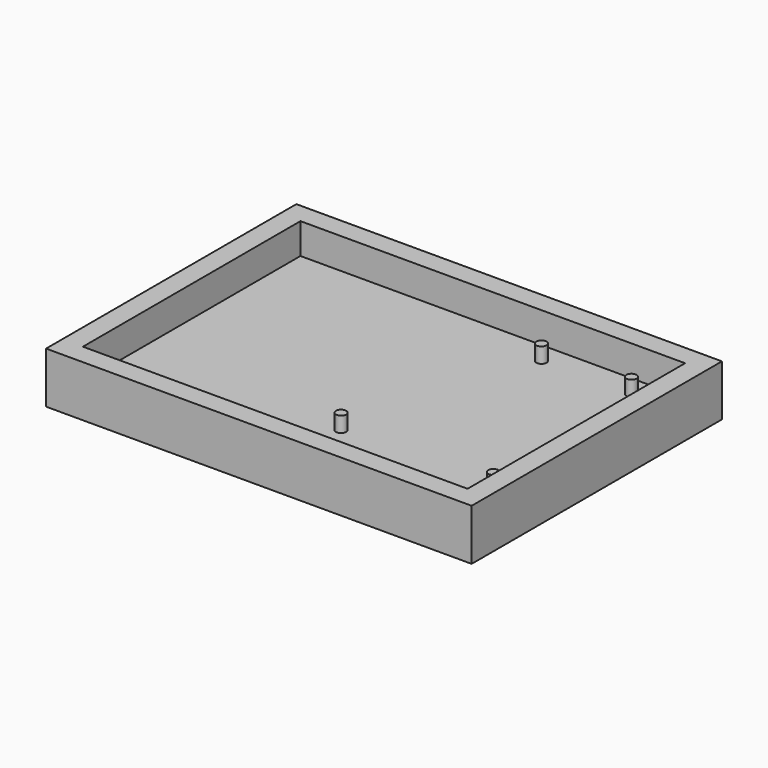
from build123d import *

# Parameters (mm, degrees)
F0_W     = 119.38
F0_H     = 84.3915
F1_DEPTH = 6.35
F2_W     = 119.38
F2_H     = 84.3915
F3_DEPTH = 9.525
F4_R     = 1.5875
F5_DEPTH = 4.7625


with BuildPart() as f1:
    # F0 (on Top) → F1 (new body)
    with BuildSketch(Plane.XY):
        Polygon((-47.6464699149, 94.2441691224), (-53.9964699149, 94.2441691224), (-53.9964699149, -2.8473308776), (78.0835300851, -2.8473308776), (78.0835300851, 0), (78.0835300851, 94.2441691224), align=None)
        with Locations((12.0435300851, 45.6984191224)):
            Rectangle(F0_W, F0_H, mode=Mode.SUBTRACT)
        with Locations((12.0435300851, 45.6984191224)):
            Rectangle(F0_W, F0_H)
    extrude(amount=F1_DEPTH)

    # F2 (on face) → F3 (join)
    with BuildSketch(Plane.XY.offset(6.35)):
        Polygon((71.7335300851, 94.2441691224), (-53.9964699149, 94.2441691224), (-53.9964699149, 87.8941691224), (-53.9964699149, -2.8473308776), (-47.6464699149, -2.8473308776), (78.0835300851, -2.8473308776), (78.0835300851, 3.5026691224), (78.0835300851, 94.2441691224), align=None)
        with Locations((12.0435300851, 45.6984191224)):
            Rectangle(F2_W, F2_H, mode=Mode.SUBTRACT)
    extrude(amount=F3_DEPTH)

    # F4 (on face) → F5 (join)
    with BuildSketch(Plane.XY.offset(6.35)):
        with Locations((32.3635300851, 81.3854191224)):
            Circle(F4_R)
        with Locations((60.3035300851, 81.3854191224)):
            Circle(F4_R)
        with Locations((17.1235300851, 22.7114191224)):
            Circle(F4_R)
        with BuildLine():
            ThreePointArc((65.3835300851, 19.8539191224), (66.5060621002, 20.3188871073), (66.9710300851, 21.4414191224))
            ThreePointArc((66.9710300851, 21.4414191224), (64.26099807, 22.5639511376), (65.3835300851, 19.8539191224))
        make_face()
    extrude(amount=F5_DEPTH)


solid = f1.part
